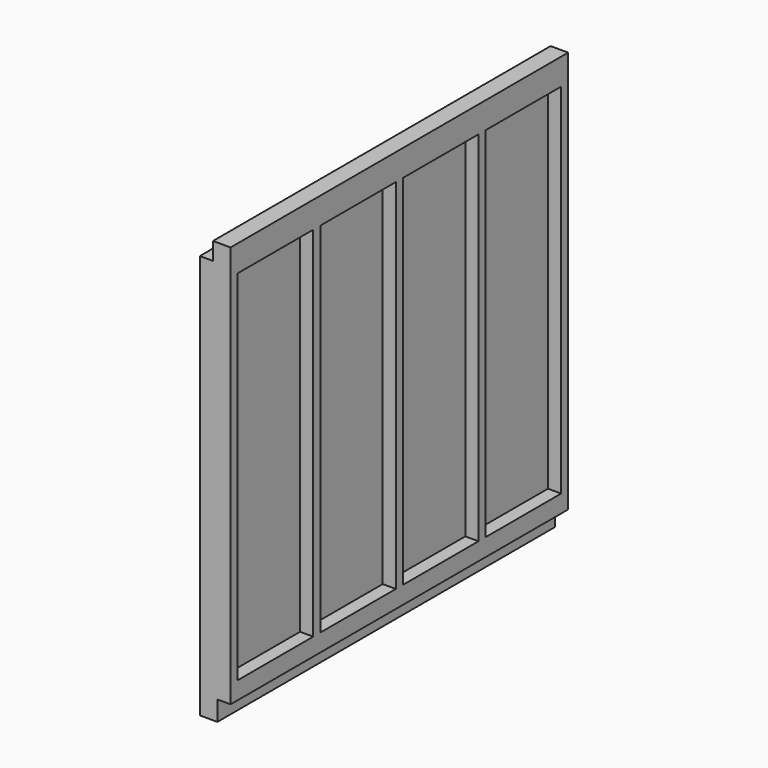
from build123d import *

# Parameters (mm, degrees)
F1_DEPTH = 609.6
F2_W     = 50.8
F2_H     = 25.4
F3_DEPTH = 609.6
F4_W     = 25.4
F4_H     = 25.4
F5_DEPTH = 609.6
F6_W     = 25.4
F6_H     = 28.575
F7_DEPTH = 609.6
F8_W     = 19.05
F8_H     = 25.4
F8_W_2   = 25.4
F8_H_2   = 38.1
F9_DEPTH = 609.6


with BuildPart() as f1:
    # F0 (on Top) → F1 (new body)
    with BuildSketch(Plane.XY):
        Polygon((0, 609.6), (0, 0), (25.4, 0), (44.45, 0), (44.45, 12.7), (25.4, 12.7), (25.4, 149.225), (44.45, 149.225), (44.45, 161.925), (25.4, 161.925), (25.4, 298.45), (44.45, 298.45), (44.45, 311.15), (25.4, 311.15), (25.4, 447.675), (44.45, 447.675), (44.45, 460.375), (25.4, 460.375), (25.4, 596.9), (44.45, 596.9), (44.45, 609.6), (25.4, 609.6), align=None)
    extrude(amount=F1_DEPTH)

    # F2 (on face) → F3 (join)
    with BuildSketch(Plane.XZ):
        with Locations((25.4, 12.7)):
            Rectangle(F2_W, F2_H)
    extrude(amount=-F3_DEPTH)

    # F4 (on face) → F5 (cut)
    with BuildSketch(Plane.XZ):
        with Locations((12.7, 596.9)):
            Rectangle(F4_W, F4_H)
    extrude(amount=-F5_DEPTH, mode=Mode.SUBTRACT)

    # F6 (on face) → F7 (cut)
    with BuildSketch(Plane.XZ):
        with Locations((38.1, 14.2875)):
            Rectangle(F6_W, F6_H)
    extrude(amount=-F7_DEPTH, mode=Mode.SUBTRACT)

    # F8 (on face) → F9 (join)
    with BuildSketch(Plane.XZ):
        with Locations((34.925, 41.275)):
            Rectangle(F8_W, F8_H)
        with Locations((31.75, 590.55)):
            Rectangle(F8_W_2, F8_H_2)
    extrude(amount=-F9_DEPTH)


solid = f1.part
